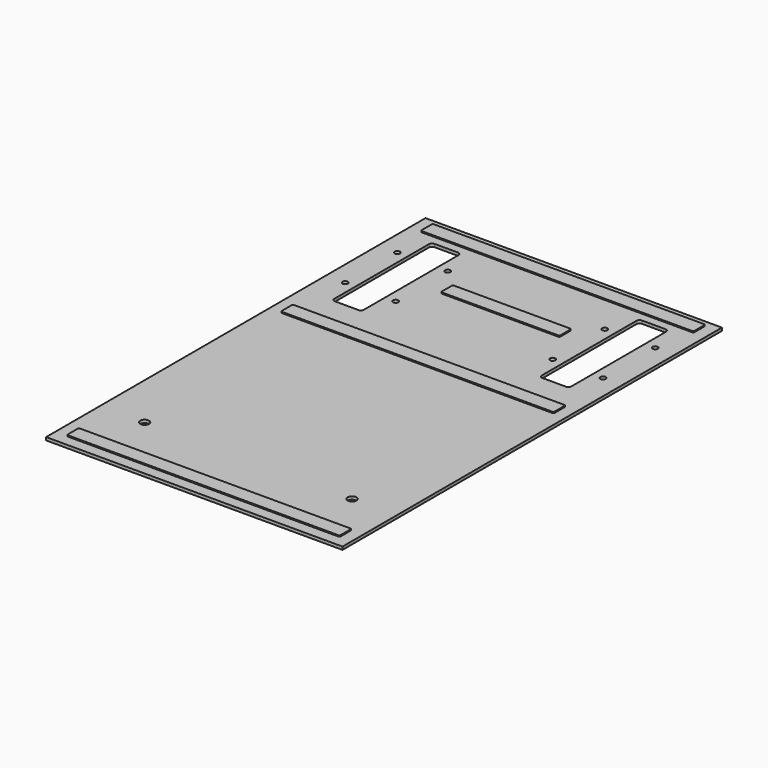
from build123d import *

# Parameters (mm, degrees)
F0_W     = 500
F0_H     = 800
F0_R     = 7.5
F0_R_2   = 4.5
F1_DEPTH = 5
F3_DEPTH = 2


with BuildPart() as f1:
    # F0 (on Top) → F1 (new body)
    with BuildSketch(Plane.XY):
        with Locations((0, -175)):
            Rectangle(F0_W, F0_H)
        with Locations((-175, -461)):
            Circle(F0_R, mode=Mode.SUBTRACT)
        with Locations((175, -461)):
            Circle(F0_R, mode=Mode.SUBTRACT)
        with Locations((-217.5, 15)):
            Circle(F0_R_2, mode=Mode.SUBTRACT)
        with Locations((-132.5, 15)):
            Circle(F0_R_2, mode=Mode.SUBTRACT)
        with BuildLine():
            ThreePointArc((-200, 170), (-198.535534, 173.535534), (-195, 175))
            Line((-195, 175), (-155, 175))
            ThreePointArc((-155, 175), (-151.464466, 173.535534), (-150, 170))
            Line((-150, 170), (-150, -30))
            ThreePointArc((-150, -30), (-151.464466, -33.535534), (-155, -35))
            Line((-155, -35), (-195, -35))
            ThreePointArc((-195, -35), (-198.535534, -33.535534), (-200, -30))
            Line((-200, -30), (-200, 170))
        make_face(mode=Mode.SUBTRACT)
        with Locations((-217.5, 125)):
            Circle(F0_R_2, mode=Mode.SUBTRACT)
        with Locations((-132.5, 125)):
            Circle(F0_R_2, mode=Mode.SUBTRACT)
        with Locations((132.5, 15)):
            Circle(F0_R_2, mode=Mode.SUBTRACT)
        with Locations((217.5, 15)):
            Circle(F0_R_2, mode=Mode.SUBTRACT)
        with BuildLine():
            Line((195, -35), (155, -35))
            ThreePointArc((155, -35), (151.464466, -33.535534), (150, -30))
            Line((150, -30), (150, 170))
            ThreePointArc((150, 170), (151.464466, 173.535534), (155, 175))
            Line((155, 175), (195, 175))
            ThreePointArc((195, 175), (198.535534, 173.535534), (200, 170))
            Line((200, 170), (200, -30))
            ThreePointArc((200, -30), (198.535534, -33.535534), (195, -35))
        make_face(mode=Mode.SUBTRACT)
        with Locations((132.5, 125)):
            Circle(F0_R_2, mode=Mode.SUBTRACT)
        with Locations((217.5, 125)):
            Circle(F0_R_2, mode=Mode.SUBTRACT)
    extrude(amount=F1_DEPTH)

    # F2 (on face) → F3 (join)
    with BuildSketch(Plane.XY.offset(5)):
        with BuildLine():
            Line((228, 215), (-228, 215))
            ThreePointArc((-228, 215), (-229.414214, 214.414214), (-230, 213))
            Line((-230, 213), (-230, 192))
            ThreePointArc((-230, 192), (-229.414214, 190.585786), (-228, 190))
            Line((-228, 190), (228, 190))
            ThreePointArc((228, 190), (229.414214, 190.585786), (230, 192))
            Line((230, 192), (230, 213))
            ThreePointArc((230, 213), (229.414214, 214.414214), (228, 215))
        make_face()
        with BuildLine():
            Line((98, 95), (-98, 95))
            ThreePointArc((-98, 95), (-99.414214, 94.414214), (-100, 93))
            Line((-100, 93), (-100, 72))
            ThreePointArc((-100, 72), (-99.414214, 70.585786), (-98, 70))
            Line((-98, 70), (98, 70))
            ThreePointArc((98, 70), (99.414214, 70.585786), (100, 72))
            Line((100, 72), (100, 93))
            ThreePointArc((100, 93), (99.414214, 94.414214), (98, 95))
        make_face()
        with BuildLine():
            Line((228, -79.874295), (-228, -79.874295))
            ThreePointArc((-228, -79.874295), (-229.414214, -80.460082), (-230, -81.874295))
            Line((-230, -81.874295), (-230, -102.874295))
            ThreePointArc((-230, -102.874295), (-229.414214, -104.288509), (-228, -104.874295))
            Line((-228, -104.874295), (228, -104.874295))
            ThreePointArc((228, -104.874295), (229.414214, -104.288509), (230, -102.874295))
            Line((230, -102.874295), (230, -81.874295))
            ThreePointArc((230, -81.874295), (229.414214, -80.460082), (228, -79.874295))
        make_face()
        with BuildLine():
            Line((228, -531.046275), (-228, -531.046275))
            ThreePointArc((-228, -531.046275), (-229.414214, -531.632061), (-230, -533.046275))
            Line((-230, -533.046275), (-230, -554.046275))
            ThreePointArc((-230, -554.046275), (-229.414214, -555.460488), (-228, -556.046275))
            Line((-228, -556.046275), (228, -556.046275))
            ThreePointArc((228, -556.046275), (229.414214, -555.460488), (230, -554.046275))
            Line((230, -554.046275), (230, -533.046275))
            ThreePointArc((230, -533.046275), (229.414214, -531.632061), (228, -531.046275))
        make_face()
    extrude(amount=F3_DEPTH)


solid = f1.part
